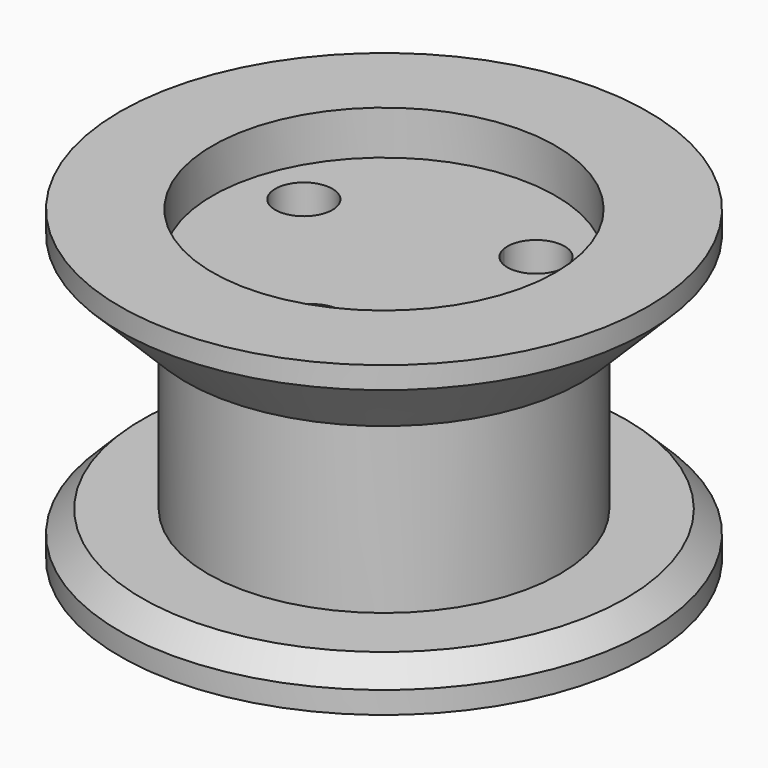
from build123d import *

# Parameters (mm, degrees)
F0_R     = 6
F0_R_2   = 4
F1_DEPTH = 1
F2_DEPTH = 7
F3_R     = 6
F3_R_2   = 4
F4_DEPTH = 2
F3_R_3   = 3.9
F3_R_4   = 0.65
F5_DEPTH = 1
F6_SIZE  = 1.5
F7_SIZE  = 0.5


with BuildPart() as f1:
    # F0 (on Top) → F1 (new body)
    with BuildSketch(Plane.XY):
        Circle(F0_R)
        Circle(F0_R_2, mode=Mode.SUBTRACT)
    extrude(amount=F1_DEPTH)

    # F0 (on Top) → F2 (join)
    with BuildSketch(Plane.XY):
        Circle(F0_R_2)
        with BuildLine():
            ThreePointArc((1.1397100223, -2.6552182762), (0.217322658, -3.2453920843), (0.0680019491, -2.1605847745))
            Line((0.0680019491, -2.1605847745), (-2.1226334177, 0.4088743166))
            ThreePointArc((-2.1226334177, 0.4088743166), (-3.1568681461, 1.1210189597), (-1.9051222763, 1.0214009718))
            Line((-1.9051222763, 1.0214009718), (1.415412254, 1.6338173044))
            ThreePointArc((1.415412254, 1.6338173044), (1.9954389417, 2.3990096505), (2.7046314686, 1.7517104579))
            ThreePointArc((2.7046314686, 1.7517104579), (2.4295432969, 1.2207291767), (1.8371203272, 1.1391838027))
            Line((1.8371203272, 1.1391838027), (0.7072211637, -2.0426916209))
            ThreePointArc((0.7072211637, -2.0426916209), (1.0206913035, -2.2803064478), (1.1397100223, -2.6552182762))
        make_face(mode=Mode.SUBTRACT)
        with BuildLine():
            Line((-2.1226334177, 0.4088743166), (0.0680019491, -2.1605847745))
            ThreePointArc((0.0680019491, -2.1605847745), (0.3718168688, -2.0159990615), (0.7072211637, -2.0426916209))
            Line((0.7072211637, -2.0426916209), (1.8371203272, 1.1391838027))
            ThreePointArc((1.8371203272, 1.1391838027), (1.5599979669, 1.3300023847), (1.415412254, 1.6338173044))
            Line((1.415412254, 1.6338173044), (-1.9051222763, 1.0214009718))
            ThreePointArc((-1.9051222763, 1.0214009718), (-1.8970422983, 0.9627003452), (-1.8943414909, 0.9035078183))
            ThreePointArc((-1.8943414909, 0.9035078183), (-1.9541676828, 0.631120454), (-2.1226334177, 0.4088743166))
        make_face()
    extrude(amount=F2_DEPTH)

    # F3 (on face) → F4 (join)
    with BuildSketch(Plane.XY.offset(7)):
        Circle(F3_R)
        Circle(F3_R_2, mode=Mode.SUBTRACT)
    extrude(amount=-F4_DEPTH)

    # F3 (on face) → F5 (cut)
    with BuildSketch(Plane.XY.offset(7)):
        Circle(F3_R_3)
        with Locations((0.4897100223, -2.6552182762)):
            Circle(F3_R_4, mode=Mode.SUBTRACT)
        with Locations((-2.5443414909, 0.9035078183)):
            Circle(F3_R_4, mode=Mode.SUBTRACT)
        with Locations((2.0546314686, 1.7517104579)):
            Circle(F3_R_4, mode=Mode.SUBTRACT)
    extrude(amount=-F5_DEPTH, mode=Mode.SUBTRACT)

    # F6
    f6_edges = [f1.edges().sort_by_distance(p)[0] for p in [
        (-6, 0, 5),
    ]]
    chamfer(f6_edges, length=F6_SIZE)

    # F7
    f7_edges = [f1.edges().sort_by_distance(p)[0] for p in [
        (-6, 0, 1),
    ]]
    chamfer(f7_edges, length=F7_SIZE)


solid = f1.part
